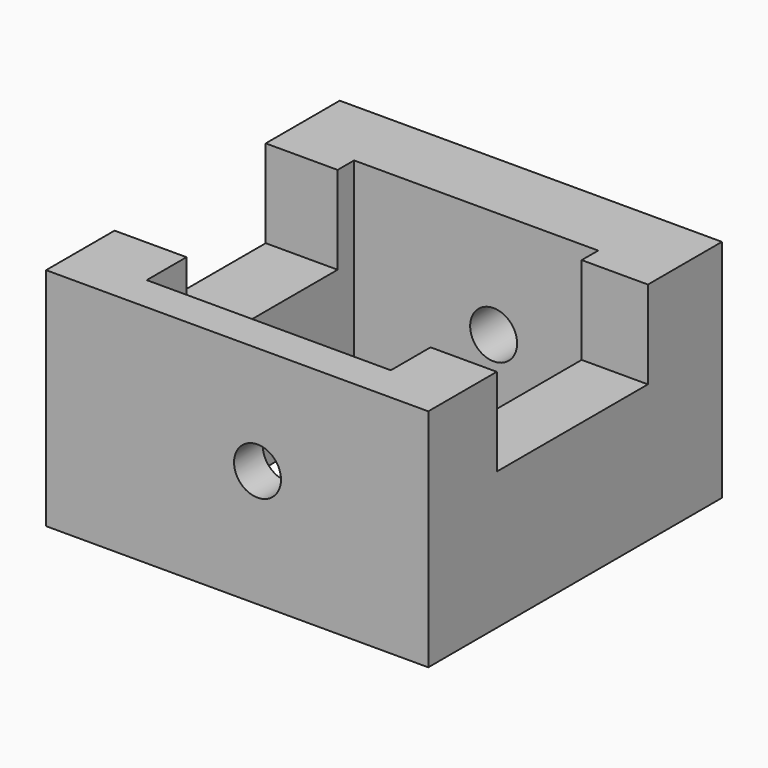
from build123d import *

# Parameters (mm, degrees)
F0_W     = 23.253381
F0_H     = 83.83457
F1_DEPTH = 72.898
F2_R     = 7.595409
F3_DEPTH = 112.014
F4_W     = 61.105391
F4_H     = 29.362335
F5_DEPTH = 109.982


with BuildPart() as f1:
    # F0 (on Top) → F1 (new body)
    with BuildSketch(Plane.XY):
        Polygon((-68.383306, -55.073805), (-68.383306, -66.700496), (55.226788, -66.700496), (55.226788, -55.073805), (33.809196, -55.073805), (-45.129925, -55.073805), align=None)
        with Locations((-56.756615, -13.15652)):
            Rectangle(F0_W, F0_H)
        Polygon((-68.383306, 52.01415), (-68.383306, 28.760765), (-45.129925, 28.760765), (33.809196, 28.760765), (33.809196, 52.01415), align=None)
        Polygon((33.809196, -55.073805), (55.226788, -55.073805), (55.226788, 52.01415), (33.809196, 52.01415), (33.809196, 28.760765), align=None)
    extrude(amount=F1_DEPTH)

    # F2 (on Front) → F3 (cut, symmetric)
    with BuildSketch(Plane.XZ):
        with Locations((0, 37.939731)):
            Circle(F2_R)
    extrude(amount=F3_DEPTH, both=True, mode=Mode.SUBTRACT)

    # F4 (on Right) → F5 (cut, symmetric)
    with BuildSketch(Plane.YZ):
        with Locations((-8.457915, 59.161521)):
            Rectangle(F4_W, F4_H)
    extrude(amount=F5_DEPTH, both=True, mode=Mode.SUBTRACT)


solid = f1.part
